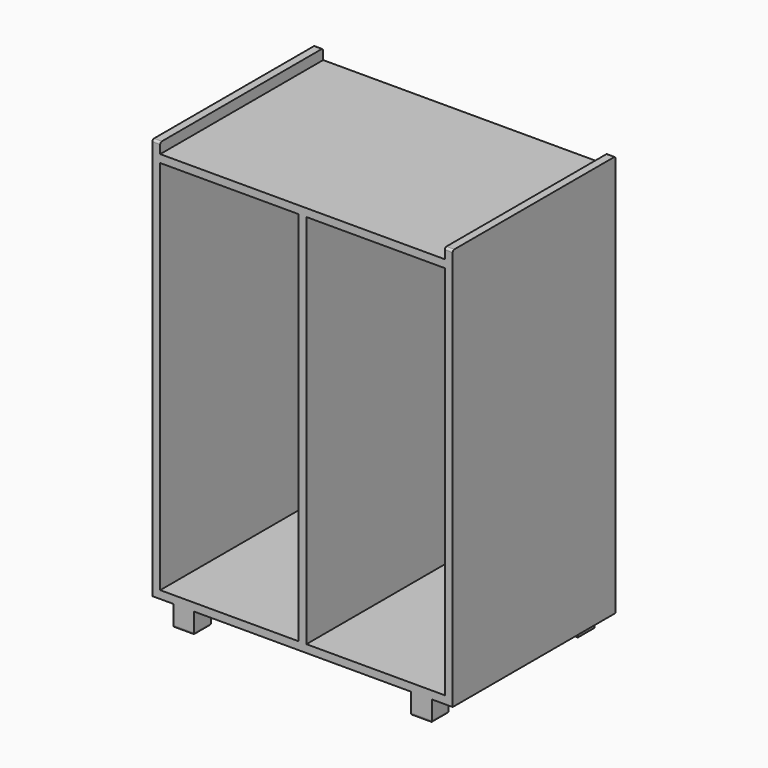
from build123d import *

# Parameters (mm, degrees)
F0_W     = 730.25
F0_H     = 495.3
F1_DEPTH = 977.9
F2_W     = 692.15
F2_H     = 495.3
F3_DEPTH = 25.4
F4_W     = 692.15
F4_H     = 914.4
F5_DEPTH = 469.9
F6_W     = 19.05
F6_H     = 914.4
F7_DEPTH = 469.9
F8_W     = 50.8
F8_H     = 50.8
F9_DEPTH = 50.8
F10_R    = 5.08
F11_R    = 5.08
F12_R    = 5.08
F13_R    = 5.08


with BuildPart() as f1:
    # F0 (on Top) → F1 (new body)
    with BuildSketch(Plane.XY):
        Rectangle(F0_W, F0_H)
    extrude(amount=F1_DEPTH)

    # F2 (on face) → F3 (cut)
    with BuildSketch(Plane.XY.offset(977.9)):
        Rectangle(F2_W, F2_H)
    extrude(amount=-F3_DEPTH, mode=Mode.SUBTRACT)

    # F4 (on face) → F5 (cut)
    with BuildSketch(Plane.XZ.offset(247.65)):
        with Locations((0, 476.25)):
            Rectangle(F4_W, F4_H)
    extrude(amount=-F5_DEPTH, mode=Mode.SUBTRACT)

    # F6 (on face) → F7 (join)
    with BuildSketch(Plane.XZ.offset(-222.25)):
        with Locations((0, 476.25)):
            Rectangle(F6_W, F6_H)
    extrude(amount=F7_DEPTH)

    # F8 (on face) → F9 (join)
    with BuildSketch(Plane(origin=(0, 0, 0), x_dir=(1, 0, 0), z_dir=(0, 0, -1))):
        with Locations((288.925, 222.25)):
            Rectangle(F8_W, F8_H)
        with Locations((288.925, -222.25)):
            Rectangle(F8_W, F8_H)
        with Locations((-288.925, -222.25)):
            Rectangle(F8_W, F8_H)
        with Locations((-288.925, 222.25)):
            Rectangle(F8_W, F8_H)
    extrude(amount=F9_DEPTH)

    # F10
    f10_edges = [f1.edges().sort_by_distance(p)[0] for p in [
        (-263.525, -222.25, -50.8),
        (-288.925, -196.85, -50.8),
        (-288.925, -247.65, -50.8),
        (-314.325, -222.25, -50.8),
        (-314.325, 222.25, -50.8),
        (-288.925, 196.85, -50.8),
        (-263.525, 222.25, -50.8),
        (-288.925, 247.65, -50.8),
    ]]
    fillet(f10_edges, radius=F10_R)

    # F11
    f11_edges = [f1.edges().sort_by_distance(p)[0] for p in [
        (314.325, -222.25, -50.8),
        (288.925, -247.65, -50.8),
        (263.525, -222.25, -50.8),
        (288.925, -196.85, -50.8),
    ]]
    fillet(f11_edges, radius=F11_R)

    # F12
    f12_edges = [f1.edges().sort_by_distance(p)[0] for p in [
        (288.925, 247.65, -50.8),
        (314.325, 222.25, -50.8),
        (288.925, 196.85, -50.8),
        (263.525, 222.25, -50.8),
    ]]
    fillet(f12_edges, radius=F12_R)

    # F13
    f13_edges = [f1.edges().sort_by_distance(p)[0] for p in [
        (355.6, -247.65, 977.9),
        (-355.6, -247.65, 977.9),
        (355.6, 247.65, 977.9),
        (-355.6, 247.65, 977.9),
    ]]
    fillet(f13_edges, radius=F13_R)


solid = f1.part
